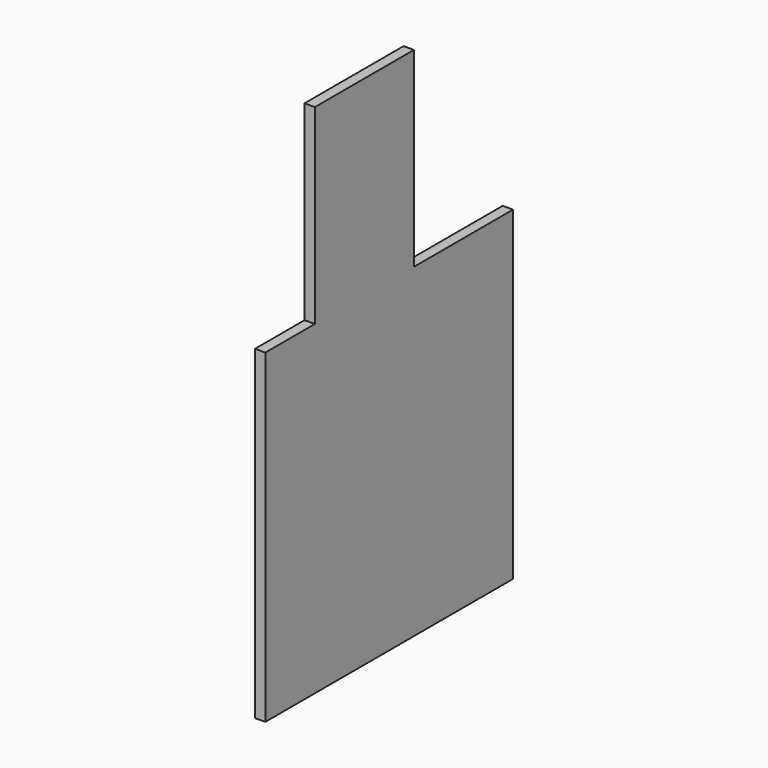
from build123d import *

# Parameters (mm, degrees)
F0_W     = 304.8
F0_H     = 469.9
F1_DEPTH = 12.7


with BuildPart() as f1:
    # F0 (on Right) → F1 (new body, symmetric)
    with BuildSketch(Plane.YZ):
        Polygon((-1752.6, 0), (-990.6, 0), (-990.6, 800.1), (-1295.4, 800.1), (-1600.2, 800.1), (-1752.6, 800.1), align=None)
        with Locations((-1447.8, 1035.05)):
            Rectangle(F0_W, F0_H)
    extrude(amount=F1_DEPTH, both=True)


solid = f1.part
